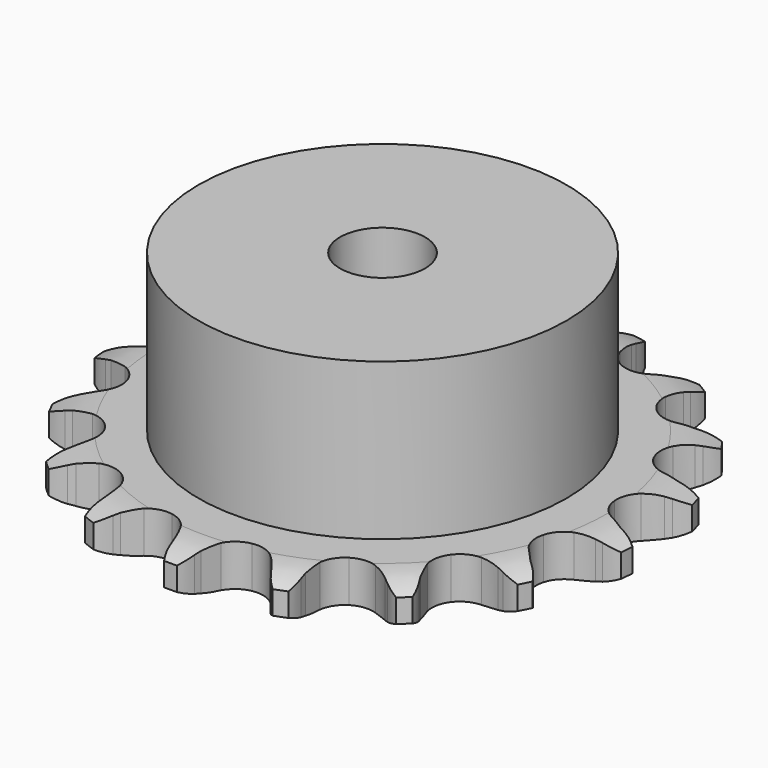
from build123d import *

# Parameters (mm, degrees)
PAD_DEPTH         = 5.9
SKETCH001_R       = 26
PAD001_DEPTH      = 28
SKETCH002_R       = 6
POCKET_DEPTH      = 0.001
POCKET_DEPTH_BACK = -28.001


with BuildPart() as part:
    # Sprocket → Pad (new body)
    with BuildSketch(Plane.XY):
        with BuildLine():
            ThreePointArc((-7.084855, 37.900625), (-5.741195, 36.693395), (-4.786586, 35.159919))
            Line((-4.786586, 35.159919), (-4.418937, 34.327275))
            ThreePointArc((-4.418937, 34.327275), (-3.818923, 33.174659), (-3.07633, 32.108311))
            ThreePointArc((-3.07633, 32.108311), (-1.707536, 31.015502), (0, 30.625439))
            ThreePointArc((0, 30.625439), (1.707536, 31.015502), (3.07633, 32.108311))
            ThreePointArc((3.07633, 32.108311), (3.818923, 33.174659), (4.418937, 34.327275))
            Line((4.418937, 34.327275), (4.786586, 35.159919))
            ThreePointArc((4.786586, 35.159919), (5.741195, 36.693395), (7.084855, 37.900625))
            ThreePointArc((7.084855, 37.900625), (7.901678, 36.289531), (8.23787, 34.514763))
            Line((8.23787, 34.514763), (8.279906, 33.605535))
            ThreePointArc((8.279906, 33.605535), (8.423029, 32.314002), (8.730268, 31.051407))
            ThreePointArc((8.730268, 31.051407), (9.611862, 29.537928), (11.063185, 28.557371))
            ThreePointArc((11.063185, 28.557371), (12.796322, 28.304261), (14.467452, 28.82881))
            Line((14.467452, 28.82881), (16.520978, 30.412927))
            ThreePointArc((16.520978, 30.412927), (16.835552, 30.741961), (17.164586, 31.056534))
            ThreePointArc((17.164586, 31.056534), (18.608688, 32.141613), (20.297715, 32.781936))
            ThreePointArc((20.297715, 32.781936), (20.477386, 30.984564), (20.149755, 29.208196))
            Line((20.149755, 29.208196), (19.860502, 28.345181))
            ThreePointArc((19.860502, 28.345181), (19.527405, 27.089161), (19.357794, 25.800838))
            ThreePointArc((19.357794, 25.800838), (19.633124, 24.071092), (20.632225, 22.632472))
            ThreePointArc((20.632225, 22.632472), (22.156893, 21.770373), (23.904665, 21.655818))
            Line((23.904665, 21.655818), (26.39177, 22.391144))
            ThreePointArc((26.39177, 22.391144), (26.803962, 22.584322), (27.224414, 22.758792))
            ThreePointArc((27.224414, 22.758792), (28.962975, 23.248928), (30.769257, 23.235864))
            ThreePointArc((30.769257, 23.235864), (30.287509, 21.494961), (29.340304, 19.9569))
            Line((29.340304, 19.9569), (28.758827, 19.256654))
            ThreePointArc((28.758827, 19.256654), (27.994496, 18.205778), (27.370943, 17.065723))
            ThreePointArc((27.370943, 17.065723), (27.002825, 15.353322), (27.414769, 13.650933))
            ThreePointArc((27.414769, 13.650933), (28.525053, 12.296275), (30.11342, 11.558088))
            Line((30.11342, 11.558088), (32.698207, 11.345313))
            ThreePointArc((32.698207, 11.345313), (33.152348, 11.376545), (33.607434, 11.387349))
            ThreePointArc((33.607434, 11.387349), (35.405651, 11.216346), (37.08524, 10.55166))
            ThreePointArc((37.08524, 10.55166), (36.007137, 9.102344), (34.568283, 8.010315))
            Line((34.568283, 8.010315), (33.773113, 7.567408))
            ThreePointArc((33.773113, 7.567408), (32.680776, 6.863604), (31.687495, 6.025788))
            ThreePointArc((31.687495, 6.025788), (30.725644, 4.562001), (30.494796, 2.825759))
            ThreePointArc((30.494796, 2.825759), (31.040747, 1.161498), (32.255191, -0.100626))
            Line((32.255191, -0.100626), (34.588569, -1.232766))
            ThreePointArc((34.588569, -1.232766), (35.023326, -1.367697), (35.451584, -1.522019))
            ThreePointArc((35.451584, -1.522019), (37.066598, -2.331065), (38.392656, -3.557603))
            ThreePointArc((38.392656, -3.557603), (36.863801, -4.519595), (35.127623, -5.018108))
            Line((35.127623, -5.018108), (34.226153, -5.143858))
            ThreePointArc((34.226153, -5.143858), (32.953335, -5.405538), (31.724475, -5.827963))
            ThreePointArc((31.724475, -5.827963), (30.298795, -6.845443), (29.456332, -8.381049))
            ThreePointArc((29.456332, -8.381049), (29.364216, -10.130147), (30.040719, -11.745749))
            Line((30.040719, -11.745749), (31.807554, -13.644352))
            ThreePointArc((31.807554, -13.644352), (32.16421, -13.927224), (32.507801, -14.225829))
            ThreePointArc((32.507801, -14.225829), (33.721495, -15.563653), (34.514931, -17.186393))
            ThreePointArc((34.514931, -17.186393), (32.741804, -17.531138), (30.942784, -17.368807))
            Line((30.942784, -17.368807), (30.056762, -17.160417))
            ThreePointArc((30.056762, -17.160417), (28.775365, -16.944632), (27.476888, -16.894616))
            ThreePointArc((27.476888, -16.894616), (25.779925, -17.328373), (24.439628, -18.45595))
            ThreePointArc((24.439628, -18.45595), (23.721885, -20.053659), (23.769082, -21.804545))
            Line((23.769082, -21.804545), (24.730752, -24.213193))
            ThreePointArc((24.730752, -24.213193), (24.961139, -24.605802), (25.173659, -25.008363))
            ThreePointArc((25.173659, -25.008363), (25.822118, -26.694283), (25.975773, -28.494066))
            ThreePointArc((25.975773, -28.494066), (24.197846, -28.175003), (22.57895, -27.373753))
            Line((22.57895, -27.373753), (21.828038, -26.859367))
            ThreePointArc((21.828038, -26.859367), (20.711121, -26.195259), (19.518396, -25.679557))
            ThreePointArc((19.518396, -25.679557), (17.779334, -25.47101), (16.122216, -26.038273))
            ThreePointArc((16.122216, -26.038273), (14.875782, -27.268813), (14.287299, -28.918515))
            Line((14.287299, -28.918515), (14.313926, -31.511908))
            ThreePointArc((14.313926, -31.511908), (14.386928, -31.961231), (14.439675, -32.413379))
            ThreePointArc((14.439675, -32.413379), (14.435321, -34.219703), (13.928443, -35.953456))
            ThreePointArc((13.928443, -35.953456), (12.385834, -35.013678), (11.165703, -33.681722))
            Line((11.165703, -33.681722), (10.651317, -32.930811))
            ThreePointArc((10.651317, -32.930811), (9.849726, -31.908072), (8.923836, -30.996332))
            ThreePointArc((8.923836, -30.996332), (7.377545, -30.173645), (5.62741, -30.103983))
            ThreePointArc((5.62741, -30.103983), (4.020622, -30.801163), (2.875937, -32.12688))
            Line((2.875937, -32.12688), (1.963924, -34.554766))
            ThreePointArc((1.963924, -34.554766), (1.869682, -35.000118), (1.755533, -35.440788))
            ThreePointArc((1.755533, -35.440788), (1.098953, -37.123562), (0, -38.557134))
            ThreePointArc((0, -38.557134), (-1.098953, -37.123562), (-1.755533, -35.440788))
            Line((-1.755533, -35.440788), (-1.963924, -34.554766))
            ThreePointArc((-1.963924, -34.554766), (-2.341929, -33.311522), (-2.875937, -32.12688))
            ThreePointArc((-2.875937, -32.12688), (-4.020622, -30.801163), (-5.62741, -30.103983))
            ThreePointArc((-5.62741, -30.103983), (-7.377545, -30.173645), (-8.923836, -30.996332))
            Line((-8.923836, -30.996332), (-10.651317, -32.930811))
            ThreePointArc((-10.651317, -32.930811), (-10.900074, -33.312045), (-11.165703, -33.681722))
            ThreePointArc((-11.165703, -33.681722), (-12.385834, -35.013678), (-13.928443, -35.953456))
            ThreePointArc((-13.928443, -35.953456), (-14.435321, -34.219703), (-14.439675, -32.413379))
            Line((-14.439675, -32.413379), (-14.313926, -31.511908))
            ThreePointArc((-14.313926, -31.511908), (-14.217293, -30.216067), (-14.287299, -28.918515))
            ThreePointArc((-14.287299, -28.918515), (-14.875782, -27.268813), (-16.122216, -26.038273))
            ThreePointArc((-16.122216, -26.038273), (-17.779334, -25.47101), (-19.518396, -25.679557))
            Line((-19.518396, -25.679557), (-21.828038, -26.859367))
            ThreePointArc((-21.828038, -26.859367), (-22.197715, -27.124996), (-22.57895, -27.373753))
            ThreePointArc((-22.57895, -27.373753), (-24.197846, -28.175003), (-25.975773, -28.494066))
            ThreePointArc((-25.975773, -28.494066), (-25.822118, -26.694283), (-25.173659, -25.008363))
            Line((-25.173659, -25.008363), (-24.730752, -24.213193))
            ThreePointArc((-24.730752, -24.213193), (-24.172534, -23.039765), (-23.769082, -21.804545))
            ThreePointArc((-23.769082, -21.804545), (-23.721885, -20.053659), (-24.439628, -18.45595))
            ThreePointArc((-24.439628, -18.45595), (-25.779925, -17.328373), (-27.476888, -16.894616))
            Line((-27.476888, -16.894616), (-30.056762, -17.160417))
            ThreePointArc((-30.056762, -17.160417), (-30.497432, -17.274566), (-30.942784, -17.368807))
            ThreePointArc((-30.942784, -17.368807), (-32.741804, -17.531138), (-34.514931, -17.186393))
            ThreePointArc((-34.514931, -17.186393), (-33.721495, -15.563653), (-32.507801, -14.225829))
            Line((-32.507801, -14.225829), (-31.807554, -13.644352))
            ThreePointArc((-31.807554, -13.644352), (-30.86314, -12.751814), (-30.040719, -11.745749))
            ThreePointArc((-30.040719, -11.745749), (-29.364216, -10.130147), (-29.456332, -8.381049))
            ThreePointArc((-29.456332, -8.381049), (-30.298795, -6.845443), (-31.724475, -5.827963))
            Line((-31.724475, -5.827963), (-34.226153, -5.143858))
            ThreePointArc((-34.226153, -5.143858), (-34.678301, -5.09111), (-35.127623, -5.018108))
            ThreePointArc((-35.127623, -5.018108), (-36.863801, -4.519595), (-38.392656, -3.557603))
            ThreePointArc((-38.392656, -3.557603), (-37.066598, -2.331065), (-35.451584, -1.522019))
            Line((-35.451584, -1.522019), (-34.588569, -1.232766))
            ThreePointArc((-34.588569, -1.232766), (-33.385507, -0.741661), (-32.255191, -0.100626))
            ThreePointArc((-32.255191, -0.100626), (-31.040747, 1.161498), (-30.494796, 2.825759))
            ThreePointArc((-30.494796, 2.825759), (-30.725644, 4.562001), (-31.687495, 6.025788))
            Line((-31.687495, 6.025788), (-33.773113, 7.567408))
            ThreePointArc((-33.773113, 7.567408), (-34.175674, 7.779928), (-34.568283, 8.010315))
            ThreePointArc((-34.568283, 8.010315), (-36.007137, 9.102344), (-37.08524, 10.55166))
            ThreePointArc((-37.08524, 10.55166), (-35.405651, 11.216346), (-33.607434, 11.387349))
            Line((-33.607434, 11.387349), (-32.698207, 11.345313))
            ThreePointArc((-32.698207, 11.345313), (-31.398977, 11.368658), (-30.11342, 11.558088))
            ThreePointArc((-30.11342, 11.558088), (-28.525053, 12.296275), (-27.414769, 13.650933))
            ThreePointArc((-27.414769, 13.650933), (-27.002825, 15.353322), (-27.370943, 17.065723))
            Line((-27.370943, 17.065723), (-28.758827, 19.256654))
            ThreePointArc((-28.758827, 19.256654), (-29.057432, 19.600245), (-29.340304, 19.9569))
            ThreePointArc((-29.340304, 19.9569), (-30.287509, 21.494961), (-30.769257, 23.235864))
            ThreePointArc((-30.769257, 23.235864), (-28.962975, 23.248928), (-27.224414, 22.758792))
            Line((-27.224414, 22.758792), (-26.39177, 22.391144))
            ThreePointArc((-26.39177, 22.391144), (-25.171841, 21.943577), (-23.904665, 21.655818))
            ThreePointArc((-23.904665, 21.655818), (-22.156893, 21.770373), (-20.632225, 22.632472))
            ThreePointArc((-20.632225, 22.632472), (-19.633124, 24.071092), (-19.357794, 25.800838))
            Line((-19.357794, 25.800838), (-19.860502, 28.345181))
            ThreePointArc((-19.860502, 28.345181), (-20.014824, 28.773439), (-20.149755, 29.208196))
            ThreePointArc((-20.149755, 29.208196), (-20.477386, 30.984564), (-20.297715, 32.781936))
            ThreePointArc((-20.297715, 32.781936), (-18.608688, 32.141613), (-17.164586, 31.056534))
            Line((-17.164586, 31.056534), (-16.520978, 30.412927))
            ThreePointArc((-16.520978, 30.412927), (-15.545109, 29.554894), (-14.467452, 28.82881))
            ThreePointArc((-14.467452, 28.82881), (-12.796322, 28.304261), (-11.063185, 28.557371))
            ThreePointArc((-11.063185, 28.557371), (-9.611862, 29.537928), (-8.730268, 31.051407))
            Line((-8.730268, 31.051407), (-8.279906, 33.605535))
            ThreePointArc((-8.279906, 33.605535), (-8.269102, 34.060621), (-8.23787, 34.514763))
            ThreePointArc((-8.23787, 34.514763), (-7.901678, 36.289531), (-7.084855, 37.900625))
        make_face()
    extrude(amount=PAD_DEPTH)

    # Sketch → Groove (revolve, cut)
    with BuildSketch(Plane.XZ):
        with BuildLine():
            Line((31.783431, 0), (37.45, 0))
            Line((43.116569, 0), (37.45, 0))
            Line((43.116569, 5.9), (43.116569, 0))
            Line((37.45, 5.9), (43.116569, 5.9))
            Line((31.783431, 5.9), (37.45, 5.9))
            ThreePointArc((37.45, 4.6), (34.69032, 5.570833), (31.783431, 5.9))
            Line((37.45, 1.3), (37.45, 4.6))
            ThreePointArc((31.783431, 0), (34.69032, 0.329167), (37.45, 1.3))
        make_face()
    revolve(axis=Axis((0, 0, 0), (0, 0, 1)), mode=Mode.SUBTRACT)

    # Sketch001 → Pad001 (join)
    with BuildSketch(Plane.XY):
        Circle(SKETCH001_R)
    extrude(amount=PAD001_DEPTH)

    # Sketch002 → Pocket (cut, two sides)
    with BuildSketch(Plane.XY) as pocket_sk:
        Circle(SKETCH002_R)
    extrude(amount=-POCKET_DEPTH, mode=Mode.SUBTRACT)
    extrude(pocket_sk.sketch, amount=-POCKET_DEPTH_BACK, mode=Mode.SUBTRACT)


solid = part.part
